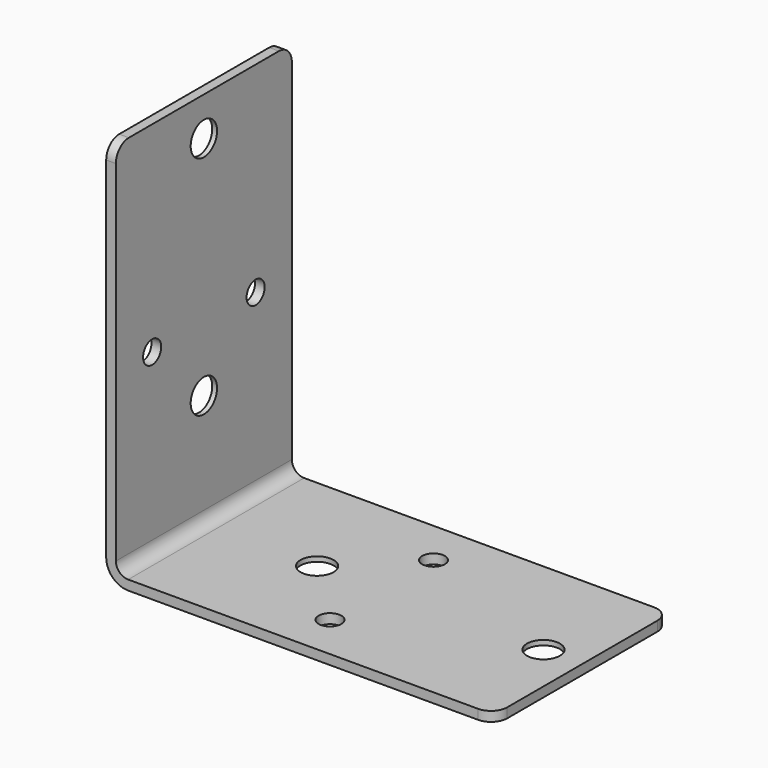
from build123d import *

# Parameters (mm, degrees)
F1_DEPTH  = 68
F2_R      = 3.8
F3_R      = 6.8
F4_R      = 5
F5_R      = 5.1
F5_R_2    = 3.5
F6_DEPTH  = 120.001
F7_R      = 5.1
F7_R_2    = 3.5
F8_DEPTH  = 120.001
F9_R      = 8.5
F10_DEPTH = 1.5
F11_R     = 8.5
F12_DEPTH = 1.5


with BuildPart() as f1:
    # F0 (on Front) → F1 (new body)
    with BuildSketch(Plane.XZ):
        Polygon((3, 120), (0, 120), (0, 0), (120, 0), (120, 3), (3, 3), align=None)
    extrude(amount=-F1_DEPTH)

    # F2
    f2_edges = [f1.edges().sort_by_distance(p)[0] for p in [
        (3, 34, 3),
    ]]
    fillet(f2_edges, radius=F2_R)

    # F3
    f3_edges = [f1.edges().sort_by_distance(p)[0] for p in [
        (0, 34, 0),
    ]]
    fillet(f3_edges, radius=F3_R)

    # F4
    f4_edges = [f1.edges().sort_by_distance(p)[0] for p in [
        (1.5, 0, 120),
        (120, 0, 1.5),
        (120, 68, 1.5),
        (1.5, 68, 120),
    ]]
    fillet(f4_edges, radius=F4_R)

    # F5 (on face) → F6 (cut, through all)
    with BuildSketch(Plane(origin=(0, 0, 0), x_dir=(1, 0, 0), z_dir=(0, 0, -1))):
        with Locations((108, -34)):
            Circle(F5_R)
        with Locations((38, -34)):
            Circle(F5_R)
        with Locations((58, -14)):
            Circle(F5_R_2)
        with Locations((58, -54)):
            Circle(F5_R_2)
    extrude(amount=-F6_DEPTH, mode=Mode.SUBTRACT)

    # F7 (on face) → F8 (cut, through all)
    with BuildSketch(Plane(origin=(0, 0, 0), x_dir=(0, -1, 0), z_dir=(-1, 0, 0))):
        with Locations((-34, 108)):
            Circle(F7_R)
        with Locations((-34, 38)):
            Circle(F7_R)
        with Locations((-14, 58)):
            Circle(F7_R_2)
        with Locations((-54, 58)):
            Circle(F7_R_2)
    extrude(amount=-F8_DEPTH, mode=Mode.SUBTRACT)

    # F9 (on face) → F10 (cut)
    with BuildSketch(Plane(origin=(0, 0, 0), x_dir=(0, -1, 0), z_dir=(-1, 0, 0))):
        with Locations((-34, 108)):
            Circle(F9_R)
        with Locations((-34, 38)):
            Circle(F9_R)
    extrude(amount=-F10_DEPTH, mode=Mode.SUBTRACT)

    # F11 (on face) → F12 (cut)
    with BuildSketch(Plane(origin=(0, 0, 0), x_dir=(1, 0, 0), z_dir=(0, 0, -1))):
        with Locations((38, -34)):
            Circle(F11_R)
        with Locations((108, -34)):
            Circle(F11_R)
    extrude(amount=-F12_DEPTH, mode=Mode.SUBTRACT)


solid = f1.part
